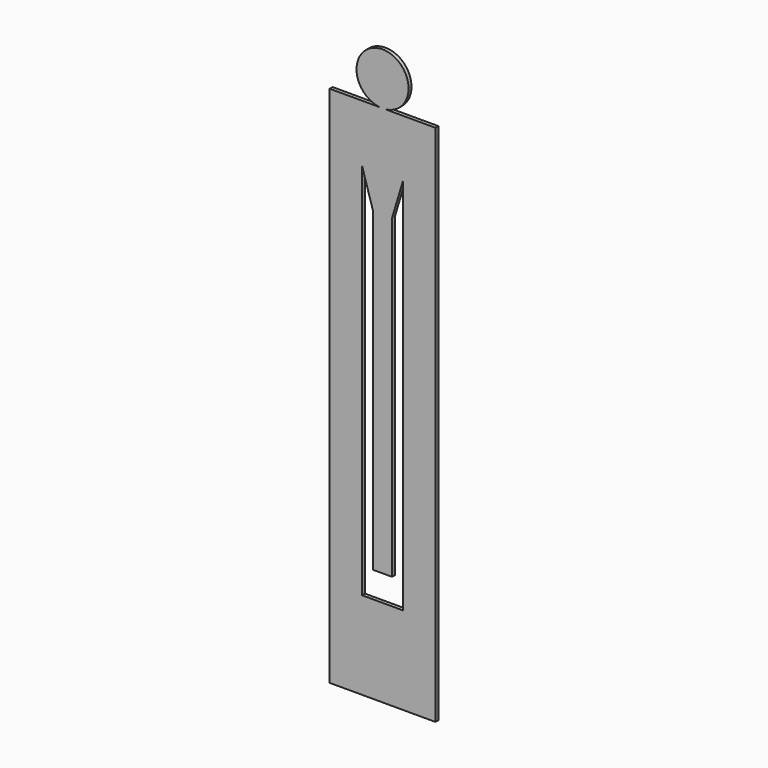
from build123d import *

# Parameters (mm, degrees)
F0_W     = 2.3575491577
F0_H     = 19.056274371
F0_W_2   = 4.1343827633
F1_DEPTH = 0.8


with BuildPart() as f1:
    # F0 (on Front) → F1 (new body)
    with BuildSketch(Plane.XZ):
        with BuildLine():
            ThreePointArc((0.5134190636, 20.3306143382), (0, 20.3072495762), (-0.5134190636, 20.3306143382))
            Line((-0.5134190636, 20.3306143382), (-11.4882850616, 20.3306143382))
            Line((-11.4882850616, 20.3306143382), (-11.4882850616, -93.387475984))
            Line((-11.4882850616, -93.387475984), (-4.4247405394, -93.387475984))
            Line((-4.4247405394, -93.387475984), (-4.4247405394, -74.3312016129))
            Line((-4.4247405394, -74.3312016129), (-4.4247405394, 7.7945953777))
            Line((-4.4247405394, 7.7945953777), (-2.0671913816, 0))
            Line((-2.0671913816, 0), (-2.0671913816, -68.6852410436))
            Line((-2.0671913816, -68.6852410436), (2.0671913816, -68.6852410436))
            Line((2.0671913816, -68.6852410436), (2.0671913816, 0))
            Line((2.0671913816, 0), (4.4247405394, 7.7945953777))
            Line((4.4247405394, 7.7945953777), (4.4247405394, -74.3312016129))
            Line((4.4247405394, -74.3312016129), (4.4247405394, -93.387475984))
            Line((4.4247405394, -93.387475984), (11.4850704372, -93.387475984))
            Line((11.4850704372, -93.387475984), (11.4850704372, 20.3306143382))
            Line((11.4850704372, 20.3306143382), (0.5134190636, 20.3306143382))
        make_face()
        with BuildLine():
            ThreePointArc((0.5134190636, 20.3306143382), (4.1745945423, 22.1487100844), (5.6526372145, 25.9598867907))
            ThreePointArc((5.6526372145, 25.9598867907), (-3.8111767063, 30.134481333), (-0.5134190636, 20.3306143382))
            Line((-0.5134190636, 20.3306143382), (0.5134190636, 20.3306143382))
        make_face()
        with BuildLine():
            Line((0.5134190636, 20.3306143382), (-0.5134190636, 20.3306143382))
            ThreePointArc((-0.5134190636, 20.3306143382), (0, 20.3072495762), (0.5134190636, 20.3306143382))
        make_face()
        with Locations((3.2459659605, -83.8593387985)):
            Rectangle(F0_W, F0_H)
        with Locations((0, -83.8593387985)):
            Rectangle(F0_W_2, F0_H)
        with Locations((-3.2459659605, -83.8593387985)):
            Rectangle(F0_W, F0_H)
    extrude(amount=F1_DEPTH)


solid = f1.part
